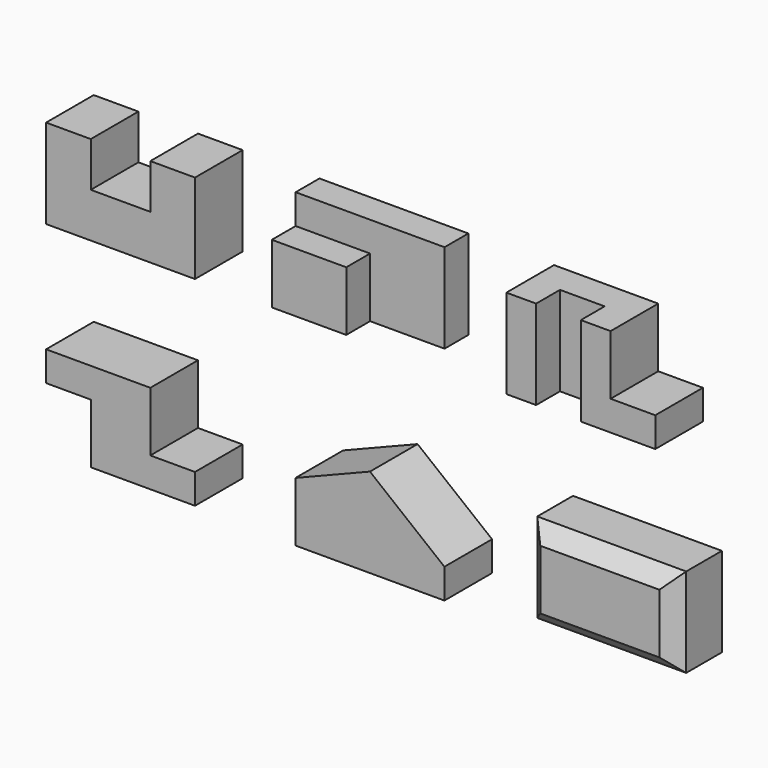
from build123d import *

# Parameters (mm, degrees)
F1_DEPTH  = 101.6
F2_W      = 254
F2_H      = 152.4
F3_DEPTH  = 101.6
F5_DEPTH  = 50.8
F6_W      = 254
F6_H      = 152.4
F7_DEPTH  = 101.6
F8_W      = 76.2
F8_H      = 152.4
F9_DEPTH  = 50.8
F10_W     = 76.2
F10_H     = 101.6
F11_DEPTH = 167.64
F12_W     = 254
F12_H     = 152.4
F13_DEPTH = 101.6
F14_W     = 76.2
F14_H     = 101.6
F15_DEPTH = 223.52
F16_W     = 76.2
F16_H     = 101.6
F17_DEPTH = 132.08
F19_DEPTH = 101.6
F20_W     = 254
F20_H     = 152.4
F21_DEPTH = 101.6
F22_SIZE  = 25.4


with BuildPart() as f1:
    # F0 (on Front) → F1 (new body)
    with BuildSketch(Plane.XZ):
        Polygon((0, 152.4), (0, 0), (254, 0), (254, 152.4), (177.8, 152.4), (177.8, 76.2), (76.2, 76.2), (76.2, 152.4), align=None)
    extrude(amount=-F1_DEPTH)


with BuildPart() as f3:
    # F2 (on Front) → F3 (new body)
    with BuildSketch(Plane.XZ):
        with Locations((512.048569, 76.2)):
            Rectangle(F2_W, F2_H)
    extrude(amount=-F3_DEPTH)

    # F4 (on face) → F5 (cut)
    with BuildSketch(Plane.XZ):
        Polygon((512.048569, 101.6), (512.048569, 0), (639.048569, 0), (639.048569, 152.4), (385.048569, 152.4), (385.048569, 101.6), align=None)
    extrude(amount=-F5_DEPTH, mode=Mode.SUBTRACT)


with BuildPart() as f7:
    # F6 (on Front) → F7 (new body)
    with BuildSketch(Plane.XZ):
        with Locations((912.157599, 76.2)):
            Rectangle(F6_W, F6_H)
    extrude(amount=-F7_DEPTH)

    # F8 (on face) → F9 (cut)
    with BuildSketch(Plane.XZ):
        with Locations((874.057599, 76.2)):
            Rectangle(F8_W, F8_H)
    extrude(amount=-F9_DEPTH, mode=Mode.SUBTRACT)

    # F10 (on face) → F11 (cut)
    with BuildSketch(Plane.XZ):
        with Locations((1001.057599, 101.6)):
            Rectangle(F10_W, F10_H)
    extrude(amount=-F11_DEPTH, mode=Mode.SUBTRACT)


with BuildPart() as f13:
    # F12 (on Front) → F13 (new body)
    with BuildSketch(Plane.XZ):
        with Locations((127, -264.282233)):
            Rectangle(F12_W, F12_H)
    extrude(amount=-F13_DEPTH)

    # F14 (on face) → F15 (cut)
    with BuildSketch(Plane.XZ):
        with Locations((38.1, -289.682233)):
            Rectangle(F14_W, F14_H)
    extrude(amount=-F15_DEPTH, mode=Mode.SUBTRACT)

    # F16 (on face) → F17 (cut)
    with BuildSketch(Plane.XZ):
        with Locations((215.9, -238.882233)):
            Rectangle(F16_W, F16_H)
    extrude(amount=-F17_DEPTH, mode=Mode.SUBTRACT)


with BuildPart() as f19:
    # F18 (on Front) → F19 (new body)
    with BuildSketch(Plane.XZ):
        Polygon((425.471574, -242.862809), (425.471574, -344.462809), (679.471574, -344.462809), (679.471574, -293.662809), (552.471574, -192.062809), align=None)
    extrude(amount=-F19_DEPTH)


with BuildPart() as f21:
    # F20 (on Front) → F21 (new body)
    with BuildSketch(Plane.XZ):
        with Locations((944.596228, -259.737119)):
            Rectangle(F20_W, F20_H)
    extrude(amount=-F21_DEPTH)

    # F22
    f22_edges = [f21.edges().sort_by_distance(p)[0] for p in [
        (817.596228, 0, -259.737119),
        (944.596228, 0, -335.937119),
        (1071.596228, 0, -259.737119),
        (944.596228, 0, -183.537119),
    ]]
    chamfer(f22_edges, length=F22_SIZE)


solid = Compound([f1.part, f3.part, f7.part, f13.part, f19.part, f21.part])
